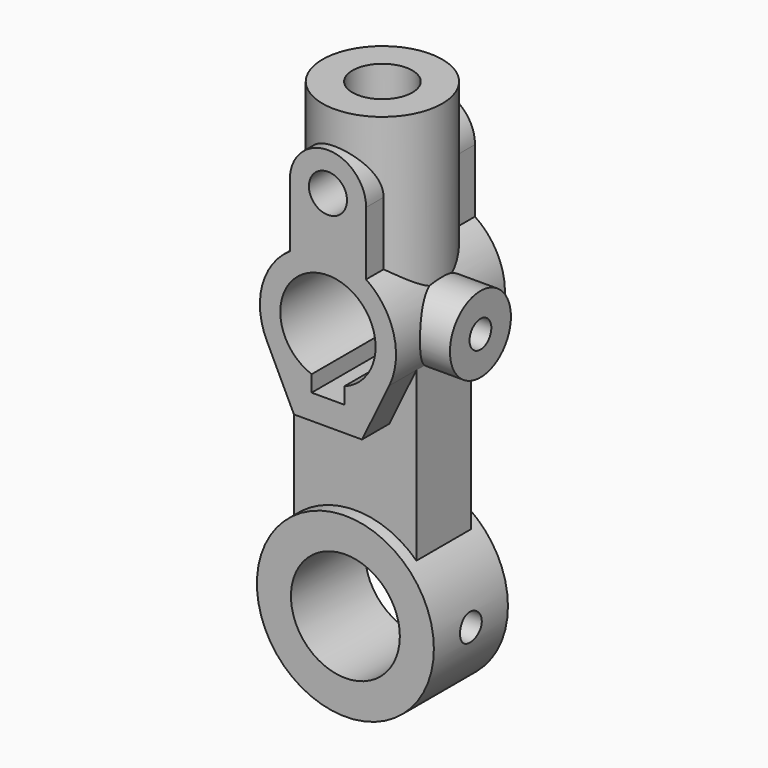
from build123d import *

# Parameters (mm, degrees)
F0_R      = 32.5
F0_R_2    = 20
F1_DEPTH  = 17
F2_W      = 45
F2_H      = 96
F3_DEPTH  = 12.5
F4_DEPTH  = 29.501
F5_R      = 7
F6_DEPTH  = 25
F7_DEPTH  = 37.501
F9_R      = 22
F11_R     = 11
F12_DEPTH = 70
F14_R     = 14
F16_R     = 5
F17_DEPTH = 19.2304902688
F18_R     = 5
F19_DEPTH = 25


with BuildPart() as f1:
    # F0 (on Front) → F1 (new body, symmetric)
    with BuildSketch(Plane.XZ):
        Circle(F0_R)
        Circle(F0_R_2, mode=Mode.SUBTRACT)
    extrude(amount=F1_DEPTH, both=True)

    # F2 (on Front) → F3 (join, symmetric)
    with BuildSketch(Plane.XZ):
        with Locations((0, 48)):
            Rectangle(F2_W, F2_H)
    extrude(amount=F3_DEPTH, both=True)

    # F4 (cut, through all): a face of the model
    f4_faces = [f1.faces().sort_by_distance(p)[0] for p in [
        (0, -12.5, 8.4882636316),
    ]]
    extrude(f4_faces, amount=-F4_DEPTH, mode=Mode.SUBTRACT)

    # F5 (on Front) → F6 (join, symmetric)
    with BuildSketch(Plane.XZ):
        with BuildLine():
            ThreePointArc((14, 140), (0, 154), (-14, 140))
            Line((-14, 140), (-14, 116.7123151772))
            ThreePointArc((-14, 116.7123151772), (-24.1423613371, 102.4920250361), (-22.5, 85.1027526411))
            Line((-22.5, 85.1027526411), (-12.5, 64.4553365928))
            Line((-12.5, 64.4553365928), (12.5, 64.4553365928))
            Line((12.5, 64.4553365928), (22.5, 85.1027526411))
            ThreePointArc((22.5, 85.1027526411), (24.1423613371, 102.4920250361), (14, 116.7123151772))
            Line((14, 116.7123151772), (14, 140))
        make_face()
        with BuildLine():
            ThreePointArc((-6, 79.5607177772), (0, 113.5), (6, 79.5607177772))
            Line((6, 79.5607177772), (6, 73.6))
            Line((6, 73.6), (-6, 73.6))
            Line((-6, 73.6), (-6, 79.5607177772))
        make_face(mode=Mode.SUBTRACT)
        with Locations((0, 140)):
            Circle(F5_R, mode=Mode.SUBTRACT)
    extrude(amount=F6_DEPTH, both=True)

    # F7 (cut, through all): a face of the model
    f7_faces = [f1.faces().sort_by_distance(p)[0] for p in [
        (0, -12.5, 87.144181228),
    ]]
    extrude(f7_faces, amount=-F7_DEPTH, mode=Mode.SUBTRACT)

    # F9 (on offset) → F10 (join, up to the next surface of F1)
    with BuildSketch(Plane.XY.offset(166)):
        Circle(F9_R)
    extrude(until=Until.NEXT, dir=(0, 0, -1))

    # F11 (on face) → F12 (cut)
    with BuildSketch(Plane.XY.offset(166)):
        Circle(F11_R)
    extrude(amount=-F12_DEPTH, mode=Mode.SUBTRACT)

    # F14 (on offset) → F15 (join, up to the next surface of F1)
    with BuildSketch(Plane.YZ.offset(36)):
        with Locations((0, 96)):
            Circle(F14_R)
    extrude(until=Until.NEXT, dir=(-1, 0, 0))

    # F16 (on offset) → F17 (cut, through all)
    with BuildSketch(Plane.YZ.offset(36)):
        with Locations((0, 96)):
            Circle(F16_R)
    extrude(amount=-F17_DEPTH, mode=Mode.SUBTRACT)

    # F18 (on offset) → F19 (cut)
    with BuildSketch(Plane.YZ.offset(36)):
        Circle(F18_R)
    extrude(amount=-F19_DEPTH, mode=Mode.SUBTRACT)


solid = f1.part
